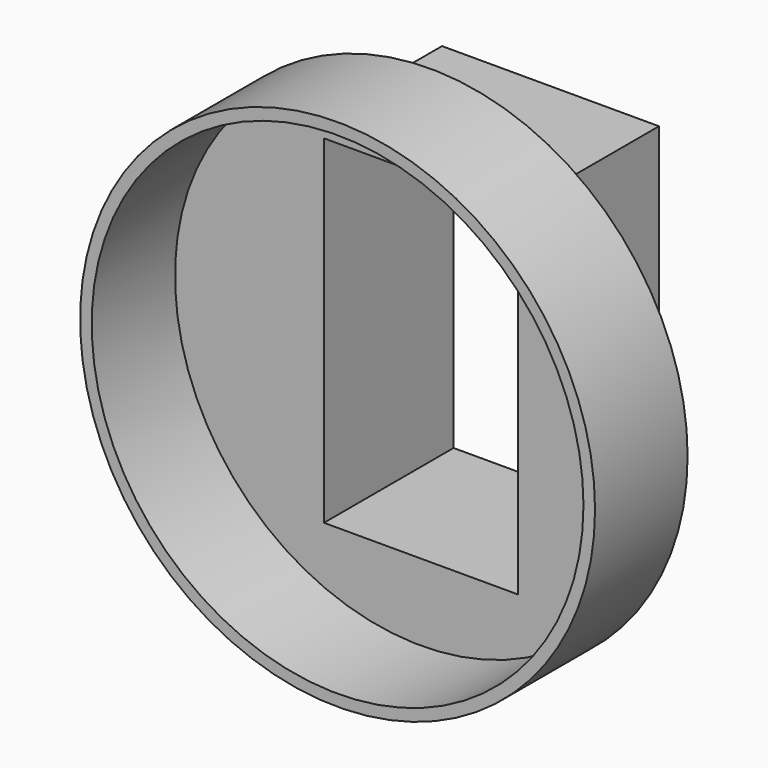
from build123d import *

# Parameters (mm, degrees)
F0_W     = 37.5
F0_H     = 62.5
F1_DEPTH = 26
F2_R     = 44.5
F2_W     = 37.5
F2_H     = 62.5
F3_DEPTH = 20
F4_T     = -2


with BuildPart() as f1:
    # F0 (on Front) → F1 (new body)
    with BuildSketch(Plane.XZ):
        with Locations((-18.75, 31.25)):
            Rectangle(F0_W, F0_H)
    extrude(amount=F1_DEPTH)

    # F2 (on face) → F3 (join)
    with BuildSketch(Plane.XZ.offset(26)):
        with Locations((-18.75, 31.25)):
            Circle(F2_R)
        with Locations((-18.75, 31.25)):
            Rectangle(F2_W, F2_H, mode=Mode.SUBTRACT)
        with Locations((-18.75, 31.25)):
            Rectangle(F2_W, F2_H)
    extrude(amount=F3_DEPTH)

    # F4
    f4_openings = [f1.faces().sort_by_distance(p)[0] for p in [
        (-18.75, -46, 31.25),
        (-18.75, 0, 31.25),
    ]]
    offset(amount=F4_T, openings=f4_openings, kind=Kind.INTERSECTION)


solid = f1.part
